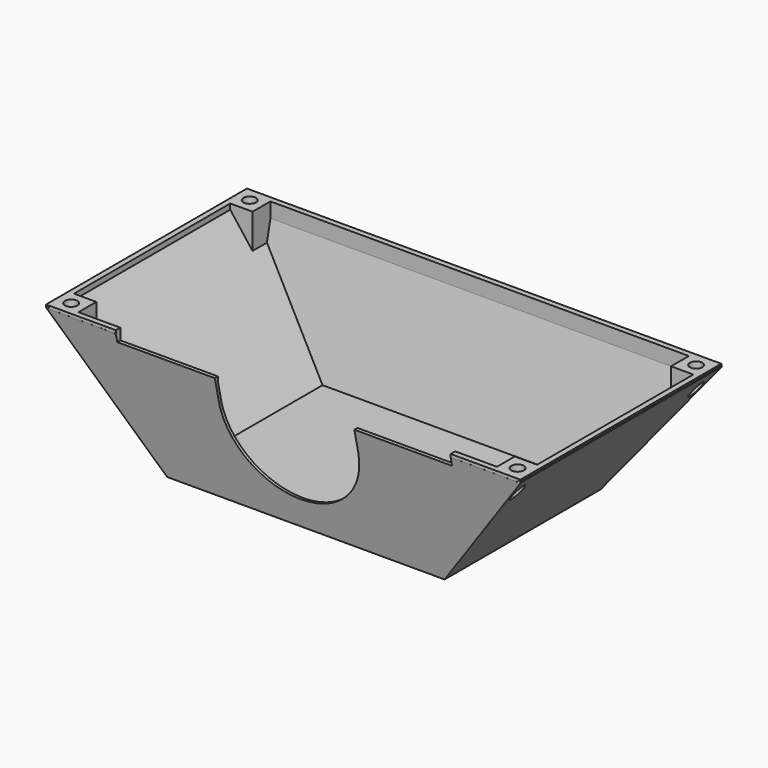
from build123d import *

# Parameters (mm, degrees)
BOX020_W               = 50
BOX020_H               = 20
BOX020_DEPTH           = 25
CYLINDER004_R          = 25
CYLINDER004_DEPTH      = 20
CYLINDER004_ROLL_ANGLE = 90
BOX019_W               = 120
BOX019_H               = 10
BOX019_DEPTH           = 10
CYLINDER003_R          = 2.25
CYLINDER003_DEPTH      = 60
CYLINDER002_R          = 2.25
CYLINDER002_DEPTH      = 60
CYLINDER001_R          = 2.25
CYLINDER001_DEPTH      = 60
CYLINDER_R             = 2.25
CYLINDER_DEPTH         = 60
BOX018_W               = 180
BOX018_H               = 50
BOX018_DEPTH           = 60
BOX018_ROLL_ANGLE      = -12.3
BOX017_W               = 180
BOX017_H               = 50
BOX017_DEPTH           = 60
BOX017_ROLL_ANGLE      = 12.3
BOX016_W               = 70
BOX016_H               = 100
BOX016_DEPTH           = 50
BOX016_PITCH_ANGLE     = 52.5
BOX015_W               = 70
BOX015_H               = 100
BOX015_DEPTH           = 50
BOX015_PITCH_ANGLE     = -52.5
BOX007_W               = 100
BOX007_H               = 70
BOX007_DEPTH           = 1
BOX014_W               = 170
BOX014_H               = 2
BOX014_DEPTH           = 7
BOX013_W               = 170
BOX013_H               = 2
BOX013_DEPTH           = 7
BOX012_W               = 2
BOX012_H               = 80
BOX012_DEPTH           = 2.5
BOX011_W               = 2
BOX011_H               = 80
BOX011_DEPTH           = 2.5
BOX010_W               = 10
BOX010_H               = 10
BOX010_DEPTH           = 13
BOX009_W               = 10
BOX009_H               = 10
BOX009_DEPTH           = 13
BOX008_W               = 10
BOX008_H               = 10
BOX008_DEPTH           = 13
BOX_W                  = 10
BOX_H                  = 10
BOX_DEPTH              = 13
BOX005_W               = 180
BOX005_H               = 1
BOX005_DEPTH           = 47
BOX005_ROLL_ANGLE      = -12.3
BOX004_W               = 180
BOX004_H               = 1
BOX004_DEPTH           = 47
BOX004_ROLL_ANGLE      = 12.3
BOX003_W               = 58
BOX003_H               = 100
BOX003_DEPTH           = 1
BOX003_PITCH_ANGLE     = -52.5
BOX002_W               = 58
BOX002_H               = 100
BOX002_DEPTH           = 1
BOX002_PITCH_ANGLE     = 52.5


with BuildPart() as cube020:
    # Box020 → Box020 (new body)
    with BuildSketch(Plane(origin=(65, 0, 35), x_dir=(1, 0, 0), z_dir=(0, 0, 1))):
        with Locations((25, 10)):
            Rectangle(BOX020_W, BOX020_H)
    extrude(amount=BOX020_DEPTH)


with BuildPart() as cylinder:
    # Cylinder004 → Cylinder004 (new body)
    with BuildSketch(Plane.XY):
        Circle(CYLINDER004_R)
    extrude(amount=CYLINDER004_DEPTH)


with BuildPart() as cylinder_1:
    # Cylinder004 roll: moved
    add(cylinder.part.rotate(Axis((0, 0, 0), (1, 0, 0)), CYLINDER004_ROLL_ANGLE))


with BuildPart() as cylinder_2:
    # Cylinder004 placement: moved
    add(cylinder_1.part.moved(Location((90, 20, 35))))


with BuildPart() as cube019:
    # Box019 → Box019 (new body)
    with BuildSketch(Plane(origin=(30, 0, 43), x_dir=(1, 0, 0), z_dir=(0, 0, 1))):
        with Locations((60, 5)):
            Rectangle(BOX019_W, BOX019_H)
    extrude(amount=BOX019_DEPTH)


with BuildPart() as cylinder003:
    # Cylinder003 → Cylinder003 (new body)
    with BuildSketch(Plane(origin=(170, 90, 0), x_dir=(1, 0, 0), z_dir=(0, 0, 1))):
        Circle(CYLINDER003_R)
    extrude(amount=CYLINDER003_DEPTH)


with BuildPart() as cylinder002:
    # Cylinder002 → Cylinder002 (new body)
    with BuildSketch(Plane(origin=(10, 90, 0), x_dir=(1, 0, 0), z_dir=(0, 0, 1))):
        Circle(CYLINDER002_R)
    extrude(amount=CYLINDER002_DEPTH)


with BuildPart() as cylinder001:
    # Cylinder001 → Cylinder001 (new body)
    with BuildSketch(Plane(origin=(170, 10, 0), x_dir=(1, 0, 0), z_dir=(0, 0, 1))):
        Circle(CYLINDER001_R)
    extrude(amount=CYLINDER001_DEPTH)


with BuildPart() as cylinder000:
    # Cylinder → Cylinder (new body)
    with BuildSketch(Plane(origin=(10, 10, 0), x_dir=(1, 0, 0), z_dir=(0, 0, 1))):
        Circle(CYLINDER_R)
    extrude(amount=CYLINDER_DEPTH)


with BuildPart() as cube018:
    # Box018 → Box018 (new body)
    with BuildSketch(Plane.XY):
        with Locations((90, 25)):
            Rectangle(BOX018_W, BOX018_H)
    extrude(amount=BOX018_DEPTH)


with BuildPart() as cube018_1:
    # Box018 roll: moved
    add(cube018.part.rotate(Axis((0, 0, 0), (1, 0, 0)), BOX018_ROLL_ANGLE))


with BuildPart() as cube018_2:
    # Box018 placement: moved
    add(cube018_1.part.moved(Location((1, 84, -4.2))))


with BuildPart() as cube017:
    # Box017 → Box017 (new body)
    with BuildSketch(Plane.XY):
        with Locations((90, 25)):
            Rectangle(BOX017_W, BOX017_H)
    extrude(amount=BOX017_DEPTH)


with BuildPart() as cube017_1:
    # Box017 roll: moved
    add(cube017.part.rotate(Axis((0, 0, 0), (1, 0, 0)), BOX017_ROLL_ANGLE))


with BuildPart() as cube017_2:
    # Box017 placement: moved
    add(cube017_1.part.moved(Location((1, -32.9, -15))))


with BuildPart() as cube016:
    # Box016 → Box016 (new body)
    with BuildSketch(Plane.XY):
        with Locations((35, 50)):
            Rectangle(BOX016_W, BOX016_H)
    extrude(amount=BOX016_DEPTH)


with BuildPart() as cube016_1:
    # Box016 pitch: moved
    add(cube016.part.rotate(Axis((0, 0, 0), (0, 1, 0)), BOX016_PITCH_ANGLE))


with BuildPart() as cube016_2:
    # Box016 placement: moved
    add(cube016_1.part.moved(Location((-39.5, 0, 22))))


with BuildPart() as cube015:
    # Box015 → Box015 (new body)
    with BuildSketch(Plane.XY):
        with Locations((35, 50)):
            Rectangle(BOX015_W, BOX015_H)
    extrude(amount=BOX015_DEPTH)


with BuildPart() as cube015_1:
    # Box015 pitch: moved
    add(cube015.part.rotate(Axis((0, 0, 0), (0, 1, 0)), BOX015_PITCH_ANGLE))


with BuildPart() as cube015_2:
    # Box015 placement: moved
    add(cube015_1.part.moved(Location((176, 0, -35))))


with BuildPart() as cube007:
    # Box007 → Box007 (new body)
    with BuildSketch(Plane(origin=(40, 15, 0), x_dir=(1, 0, 0), z_dir=(0, 0, 1))):
        with Locations((50, 35)):
            Rectangle(BOX007_W, BOX007_H)
    extrude(amount=BOX007_DEPTH)


with BuildPart() as cube014:
    # Box014 → Box014 (new body)
    with BuildSketch(Plane(origin=(5, 93, 40), x_dir=(1, 0, 0), z_dir=(0, 0, 1))):
        with Locations((85, 1)):
            Rectangle(BOX014_W, BOX014_H)
    extrude(amount=BOX014_DEPTH)


with BuildPart() as cube013:
    # Box013 → Box013 (new body)
    with BuildSketch(Plane(origin=(5, 5, 40), x_dir=(1, 0, 0), z_dir=(0, 0, 1))):
        with Locations((85, 1)):
            Rectangle(BOX013_W, BOX013_H)
    extrude(amount=BOX013_DEPTH)


with BuildPart() as cube012:
    # Box012 → Box012 (new body)
    with BuildSketch(Plane(origin=(173, 5, 44.5), x_dir=(1, 0, 0), z_dir=(0, 0, 1))):
        with Locations((1, 40)):
            Rectangle(BOX012_W, BOX012_H)
    extrude(amount=BOX012_DEPTH)


with BuildPart() as cube011:
    # Box011 → Box011 (new body)
    with BuildSketch(Plane(origin=(5, 5, 44.5), x_dir=(1, 0, 0), z_dir=(0, 0, 1))):
        with Locations((1, 40)):
            Rectangle(BOX011_W, BOX011_H)
    extrude(amount=BOX011_DEPTH)


with BuildPart() as cube010:
    # Box010 → Box010 (new body)
    with BuildSketch(Plane(origin=(5, 85, 34), x_dir=(1, 0, 0), z_dir=(0, 0, 1))):
        with Locations((5, 5)):
            Rectangle(BOX010_W, BOX010_H)
    extrude(amount=BOX010_DEPTH)


with BuildPart() as cube009:
    # Box009 → Box009 (new body)
    with BuildSketch(Plane(origin=(165, 85, 34), x_dir=(1, 0, 0), z_dir=(0, 0, 1))):
        with Locations((5, 5)):
            Rectangle(BOX009_W, BOX009_H)
    extrude(amount=BOX009_DEPTH)


with BuildPart() as cube008:
    # Box008 → Box008 (new body)
    with BuildSketch(Plane(origin=(165, 5, 34), x_dir=(1, 0, 0), z_dir=(0, 0, 1))):
        with Locations((5, 5)):
            Rectangle(BOX008_W, BOX008_H)
    extrude(amount=BOX008_DEPTH)


with BuildPart() as cube:
    # Box → Box (new body)
    with BuildSketch(Plane(origin=(5, 5, 34), x_dir=(1, 0, 0), z_dir=(0, 0, 1))):
        with Locations((5, 5)):
            Rectangle(BOX_W, BOX_H)
    extrude(amount=BOX_DEPTH)


with BuildPart() as cube005:
    # Box005 → Box005 (new body)
    with BuildSketch(Plane.XY):
        with Locations((90, 0.5)):
            Rectangle(BOX005_W, BOX005_H)
    extrude(amount=BOX005_DEPTH)


with BuildPart() as cube005_1:
    # Box005 roll: moved
    add(cube005.part.rotate(Axis((0, 0, 0), (1, 0, 0)), BOX005_ROLL_ANGLE))


with BuildPart() as cube005_2:
    # Box005 placement: moved
    add(cube005_1.part.moved(Location((1, 84, 0.4))))


with BuildPart() as fusion001:
    # Box004 → Box004 (new body)
    with BuildSketch(Plane.XY):
        with Locations((90, 0.5)):
            Rectangle(BOX004_W, BOX004_H)
    extrude(amount=BOX004_DEPTH)


with BuildPart() as fusion001_1:
    # Box004 roll: moved
    add(fusion001.part.rotate(Axis((0, 0, 0), (1, 0, 0)), BOX004_ROLL_ANGLE))


with BuildPart() as fusion001_2:
    # Box004 placement: moved
    add(fusion001_1.part.moved(Location((1, 15, 0))))

    # Fusion001: union Cube005
    add(cube005_2.part)


with BuildPart() as cube003:
    # Box003 → Box003 (new body)
    with BuildSketch(Plane.XY):
        with Locations((29, 50)):
            Rectangle(BOX003_W, BOX003_H)
    extrude(amount=BOX003_DEPTH)


with BuildPart() as cube003_1:
    # Box003 pitch: moved
    add(cube003.part.rotate(Axis((0, 0, 0), (0, 1, 0)), BOX003_PITCH_ANGLE))


with BuildPart() as cube003_2:
    # Box003 placement: moved
    add(cube003_1.part.moved(Location((140, 0, 0.1))))


with BuildPart() as cut010:
    # Box002 → Box002 (new body)
    with BuildSketch(Plane.XY):
        with Locations((29, 50)):
            Rectangle(BOX002_W, BOX002_H)
    extrude(amount=BOX002_DEPTH)


with BuildPart() as cut010_1:
    # Box002 pitch: moved
    add(cut010.part.rotate(Axis((0, 0, 0), (0, 1, 0)), BOX002_PITCH_ANGLE))


with BuildPart() as cut010_2:
    # Box002 placement: moved
    add(cut010_1.part.moved(Location((5, 0, 46))))

    # Fusion: union Cube003
    add(cube003_2.part)

    # Fusion002: union Fusion001
    add(fusion001_2.part)

    # Fusion003: union Cube
    add(cube.part)

    # Fusion004: union Cube008
    add(cube008.part)

    # Fusion005: union Cube009
    add(cube009.part)

    # Fusion006: union Cube010
    add(cube010.part)

    # Fusion007: union Cube011
    add(cube011.part)

    # Fusion008: union Cube012
    add(cube012.part)

    # Fusion009: union Cube013
    add(cube013.part)

    # Fusion010: union Cube014
    add(cube014.part)

    # Fusion011: union Cube007
    add(cube007.part)

    # Cut: cut Cube015
    add(cube015_2.part, mode=Mode.SUBTRACT)

    # Cut001: cut Cube016
    add(cube016_2.part, mode=Mode.SUBTRACT)

    # Cut002: cut Cube017
    add(cube017_2.part, mode=Mode.SUBTRACT)

    # Cut003: cut Cube018
    add(cube018_2.part, mode=Mode.SUBTRACT)

    # Cut004: cut Cylinder000
    add(cylinder000.part, mode=Mode.SUBTRACT)

    # Cut005: cut Cylinder001
    add(cylinder001.part, mode=Mode.SUBTRACT)

    # Cut006: cut Cylinder002
    add(cylinder002.part, mode=Mode.SUBTRACT)

    # Cut007: cut Cylinder003
    add(cylinder003.part, mode=Mode.SUBTRACT)

    # Cut008: cut Cube019
    add(cube019.part, mode=Mode.SUBTRACT)

    # Cut009: cut Cylinder
    add(cylinder_2.part, mode=Mode.SUBTRACT)

    # Cut010: cut Cube020
    add(cube020.part, mode=Mode.SUBTRACT)


solid = cut010_2.part
